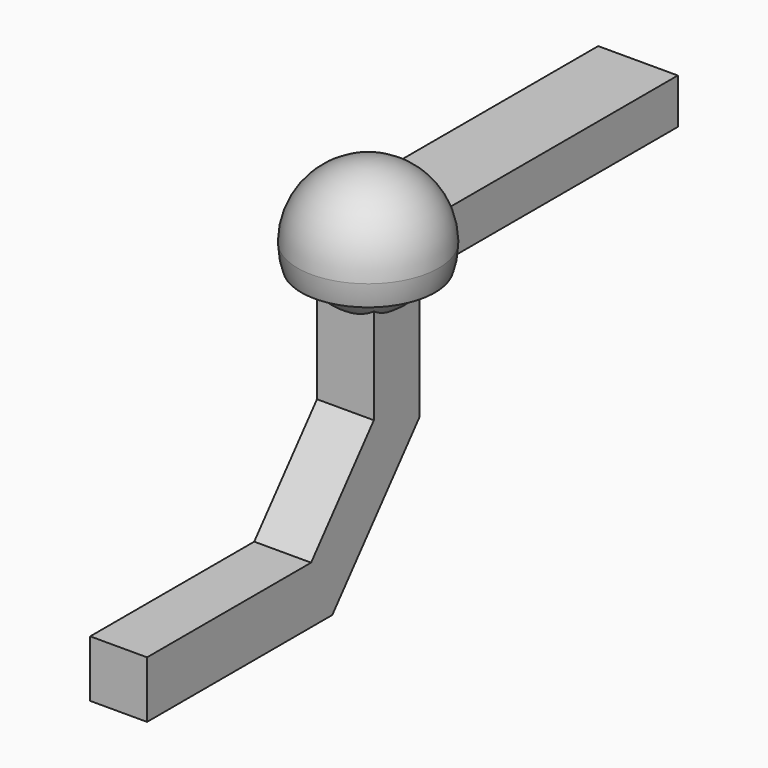
from build123d import *

# Parameters (mm, degrees)
F2_DEPTH = 12.5
F5_W     = 35
F5_H     = 19.9022677168


with BuildPart() as f1:
    # F0 (on Right) → F1 (revolve)
    with BuildSketch(Plane.YZ):
        with BuildLine():
            Line((0, -9.0290624648), (0, 25))
            ThreePointArc((0, 25), (-24.1481456572, 6.4704761276), (-12.5, -21.6506350946))
            Line((-12.5, -21.6506350946), (-12.5, -9.0290624648))
            Line((-12.5, -9.0290624648), (0, -9.0290624648))
        make_face()
        with BuildLine():
            ThreePointArc((-12.5, -21.6506350946), (-6.4704761276, -24.1481456572), (0, -25))
            Line((0, -25), (0, -9.0290624648))
            Line((0, -9.0290624648), (-12.5, -9.0290624648))
            Line((-12.5, -9.0290624648), (-12.5, -21.6506350946))
        make_face()
    revolve(axis=Axis((0, 0, 0), (0, 0, -1)))

    # F0 (on Right) → F2 (join, symmetric)
    with BuildSketch(Plane.YZ):
        with BuildLine():
            Line((12.5, -68.8932172369), (12.5, -28.368115905))
            ThreePointArc((12.5, -28.368115905), (6.3870340122, -30.3348940418), (0, -31))
            ThreePointArc((0, -31), (-6.3870340122, -30.3348940418), (-12.5, -28.368115905))
            Line((-12.5, -28.368115905), (-12.5, -59.7960000712))
            Line((-12.5, -59.7960000712), (-46.9832708318, -100.9035838498))
            Line((-46.9832708318, -100.9035838498), (-137.1278739958, -100.9035838498))
            Line((-137.1278739958, -100.9035838498), (-137.1278739958, -125.9035838498))
            Line((-137.1278739958, -125.9035838498), (-35.3233875949, -125.9035838498))
            Line((-35.3233875949, -125.9035838498), (12.5, -68.8932172369))
        make_face()
        with BuildLine():
            Line((12.5, -28.368115905), (12.5, -22.7980262304))
            ThreePointArc((12.5, -22.7980262304), (6.451795022, -25.1867890172), (0, -26))
            Line((0, -26), (0, -31))
            ThreePointArc((0, -31), (6.3870340122, -30.3348940418), (12.5, -28.368115905))
        make_face()
        with BuildLine():
            Line((0, -31), (0, -26))
            ThreePointArc((0, -26), (-6.451795022, -25.1867890172), (-12.5, -22.7980262304))
            Line((-12.5, -22.7980262304), (-12.5, -28.368115905))
            ThreePointArc((-12.5, -28.368115905), (-6.3870340122, -30.3348940418), (0, -31))
        make_face()
        with BuildLine():
            Line((0, -26), (0, -25))
            ThreePointArc((0, -25), (-6.4704761276, -24.1481456572), (-12.5, -21.6506350946))
            Line((-12.5, -21.6506350946), (-12.5, -22.7980262304))
            ThreePointArc((-12.5, -22.7980262304), (-6.451795022, -25.1867890172), (0, -26))
        make_face()
        with BuildLine():
            ThreePointArc((-12.5, -21.6506350946), (-6.4704761276, -24.1481456572), (0, -25))
            Line((0, -25), (0, -9.0290624648))
            Line((0, -9.0290624648), (-12.5, -9.0290624648))
            Line((-12.5, -9.0290624648), (-12.5, -21.6506350946))
        make_face()
        with BuildLine():
            ThreePointArc((0, -25), (6.4704761276, -24.1481456572), (12.5, -21.6506350946))
            Line((12.5, -21.6506350946), (12.5, -9.0290624648))
            Line((12.5, -9.0290624648), (0, -9.0290624648))
            Line((0, -9.0290624648), (0, -25))
        make_face()
        with BuildLine():
            Line((12.5, -22.7980262304), (12.5, -21.6506350946))
            ThreePointArc((12.5, -21.6506350946), (6.4704761276, -24.1481456572), (0, -25))
            Line((0, -25), (0, -26))
            ThreePointArc((0, -26), (6.451795022, -25.1867890172), (12.5, -22.7980262304))
        make_face()
    extrude(amount=F2_DEPTH, both=True)


with BuildPart() as f3:
    # F0 (on Right) → F3 (revolve)
    with BuildSketch(Plane.YZ):
        with BuildLine():
            ThreePointArc((26, 0), (25.495097568, -5.0990195136), (24, -10))
            Line((24, -10), (29.3428015022, -10))
            ThreePointArc((29.3428015022, -10), (30.5828942921, -5.0681926478), (31, 0))
            ThreePointArc((31, 0), (21.9203102168, 21.9203102168), (0, 31))
            Line((0, 31), (0, 26))
            ThreePointArc((0, 26), (18.3847763109, 18.3847763109), (26, 0))
        make_face()
    revolve(axis=Axis((0, 0, 0), (0, 0, -1)))

    # F5 (on offset) → F6 (join, up to the next surface of F3)
    with BuildSketch(Plane.XZ.offset(-148.3)):
        with Locations((0, -0.0488661416)):
            Rectangle(F5_W, F5_H)
    extrude(until=Until.NEXT)


solid = Compound([f1.part, f3.part])
